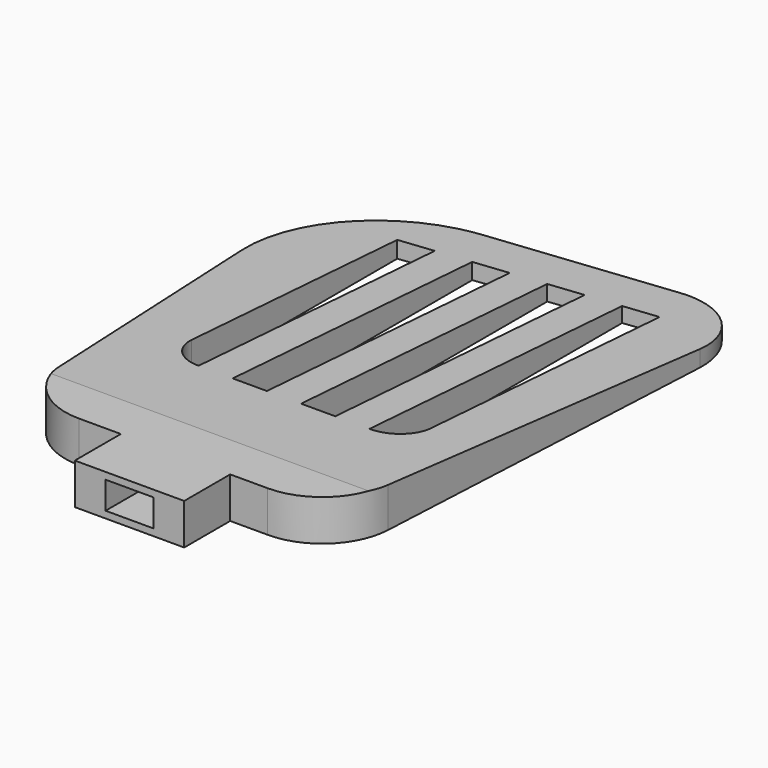
from build123d import *

# Parameters (mm, degrees)
F1_DEPTH      = 6
F3_DEPTH      = 32.218832
F3_DEPTH_BACK = 22.944034
F4_W          = 7
F4_H          = 4
F5_DEPTH      = 9


with BuildPart() as f1:
    # F0 (on Top) → F1 (new body)
    with BuildSketch(Plane.XY):
        with BuildLine():
            Line((-1.988453, 8.411565), (-1.988453, 0))
            Line((-1.988453, 0), (14.011547, 0))
            Line((14.011547, 0), (14.011547, 8.411565))
            Line((14.011547, 8.411565), (19.504514, 8.411565))
            ThreePointArc((19.504514, 8.411565), (26.394687, 11.164117), (29.491749, 17.906464))
            Line((29.491749, 17.906464), (32.205068, 71.556178))
            ThreePointArc((32.205068, 71.556178), (29.038679, 79.374011), (21.019631, 81.989235))
            Line((21.019631, 81.989235), (-5.339437, 78.807969))
            ThreePointArc((-5.339437, 78.807969), (-18.677797, 71.297794), (-22.798946, 56.555653))
            Line((-22.798946, 56.555653), (-18.050739, 17.213364))
            ThreePointArc((-18.050739, 17.213364), (-14.75671, 10.928852), (-8.122783, 8.411565))
            Line((-8.122783, 8.411565), (-1.988453, 8.411565))
        make_face()
        with BuildLine():
            Line((-11.620977, 33.411565), (-11.620977, 70.999055))
            Line((-11.620977, 70.999055), (-6.620977, 71.602503))
            Line((-6.620977, 71.602503), (-6.620977, 28.411565))
            ThreePointArc((-6.620977, 28.411565), (-10.15651, 29.876032), (-11.620977, 33.411565))
        make_face(mode=Mode.SUBTRACT)
        Polygon((-1.620977, 28.411565), (-1.620977, 72.205952), (3.379023, 72.8094), (3.379023, 28.411565), align=None, mode=Mode.SUBTRACT)
        Polygon((8.379023, 73.412848), (13.379023, 74.016297), (13.379023, 28.411565), (8.379023, 28.411565), align=None, mode=Mode.SUBTRACT)
        with BuildLine():
            Line((23.379023, 75.223193), (23.379023, 33.411565))
            ThreePointArc((23.379023, 33.411565), (21.914557, 29.876032), (18.379023, 28.411565))
            Line((18.379023, 28.411565), (18.379023, 74.619745))
            Line((18.379023, 74.619745), (23.379023, 75.223193))
        make_face(mode=Mode.SUBTRACT)
    extrude(amount=F1_DEPTH)

    # F2 (on Right) → F3 (cut, two sides)
    with BuildSketch(Plane.YZ) as f3_sk:
        Polygon((82.888745, 7.075289), (8.152761, 6.443492), (82.888745, 1.665537), align=None)
    extrude(amount=F3_DEPTH, mode=Mode.SUBTRACT)
    extrude(f3_sk.sketch, amount=-F3_DEPTH_BACK, mode=Mode.SUBTRACT)

    # F4 (on face) → F5 (cut)
    with BuildSketch(Plane.XZ):
        with Locations((6.011547, 3)):
            Rectangle(F4_W, F4_H)
    extrude(amount=-F5_DEPTH, mode=Mode.SUBTRACT)


solid = f1.part
